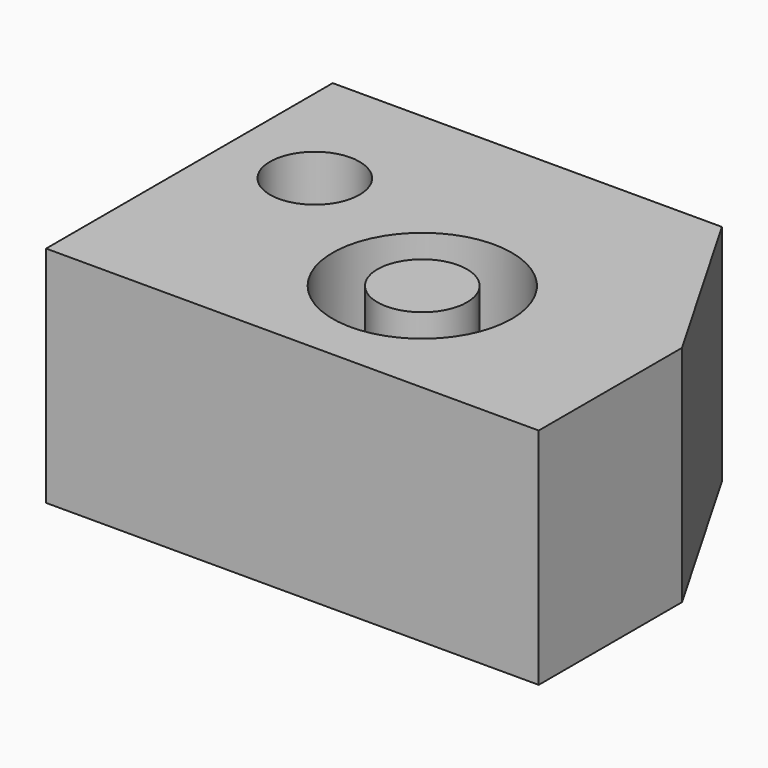
from build123d import *

# Parameters (mm, degrees)
F0_R     = 10
F0_R_2   = 5
F1_DEPTH = 25


with BuildPart() as f1:
    # F0 (on Top) → F1 (new body)
    with BuildSketch(Plane.XY):
        Polygon((-76.223671, -11.023974), (-76.223671, -36.023974), (-21.223671, -36.023974), (-21.223671, -16.023974), (-32.770677, 3.976026), (-76.223671, 3.976026), align=None)
        with Locations((-46.223671, -21.023974)):
            Circle(F0_R, mode=Mode.SUBTRACT)
        with Locations((-66.223671, -11.023974)):
            Circle(F0_R_2, mode=Mode.SUBTRACT)
        with Locations((-46.223671, -21.023974)):
            Circle(F0_R_2)
    extrude(amount=F1_DEPTH)


solid = f1.part
